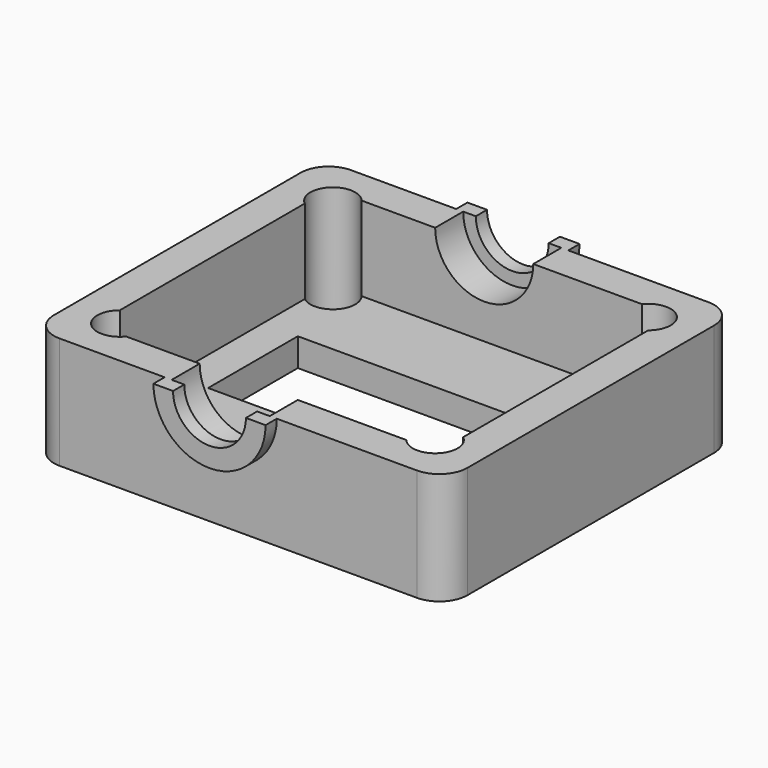
from build123d import *

# Parameters (mm, degrees)
BOX_W             = 8
BOX_H             = 1
BOX_DEPTH         = 4
TUBE016_R         = 4
TUBE016_R_2       = 2.6
TUBE016_DEPTH     = 1
BOX067_W          = 8
BOX067_H          = 1
BOX067_DEPTH      = 4
TUBE019_R         = 4
TUBE019_R_2       = 2.6
TUBE019_DEPTH     = 1
BOX051_W          = 17
BOX051_H          = 8
BOX051_DEPTH      = 2
CYLINDER093_R     = 1.6
CYLINDER093_DEPTH = 8
CYLINDER094_R     = 1.6
CYLINDER094_DEPTH = 8
CYLINDER095_R     = 1.6
CYLINDER095_DEPTH = 8
CYLINDER092_R     = 1.6
CYLINDER092_DEPTH = 8
CYLINDER084_R     = 3.5
CYLINDER084_DEPTH = 2.5
BOX033_W          = 29.5
BOX033_H          = 2.5
BOX033_DEPTH      = 6
CYLINDER082_R     = 3.5
CYLINDER082_DEPTH = 2.5
BOX021_W          = 29.5
BOX021_H          = 2.5
BOX021_DEPTH      = 6
BOX022_W          = 29.5
BOX022_H          = 26
BOX022_DEPTH      = 2
BOX029_W          = 2.5
BOX029_H          = 21
BOX029_DEPTH      = 6
BOX036_W          = 2.5
BOX036_H          = 21
BOX036_DEPTH      = 6
FILLET006_R       = 2
FILLET007_R       = 2


with BuildPart() as cube:
    # Box → Box (new body)
    with BuildSketch(Plane(origin=(-4, -7, 0), x_dir=(1, 0, 0), z_dir=(0, 0, 1))):
        with Locations((4, 0.5)):
            Rectangle(BOX_W, BOX_H)
    extrude(amount=BOX_DEPTH)


with BuildPart() as cut068:
    # Tube016 → Tube016 (new body)
    with BuildSketch(Plane.XZ.offset(6)):
        Circle(TUBE016_R)
        Circle(TUBE016_R_2, mode=Mode.SUBTRACT)
    extrude(amount=TUBE016_DEPTH)

    # Cut068: cut Cube
    add(cube.part, mode=Mode.SUBTRACT)


with BuildPart() as cube067:
    # Box067 → Box067 (new body)
    with BuildSketch(Plane(origin=(-4, -34, 0), x_dir=(1, 0, 0), z_dir=(0, 0, 1))):
        with Locations((4, 0.5)):
            Rectangle(BOX067_W, BOX067_H)
    extrude(amount=BOX067_DEPTH)


with BuildPart() as cut071:
    # Tube019 → Tube019 (new body)
    with BuildSketch(Plane.XZ.offset(33)):
        Circle(TUBE019_R)
        Circle(TUBE019_R_2, mode=Mode.SUBTRACT)
    extrude(amount=TUBE019_DEPTH)

    # Cut071: cut Cube067
    add(cube067.part, mode=Mode.SUBTRACT)


with BuildPart() as cube051:
    # Box051 → Box051 (new body)
    with BuildSketch(Plane(origin=(-8.5, -49, -8), x_dir=(1, 0, 0), z_dir=(0, 0, 1))):
        with Locations((8.5, 4)):
            Rectangle(BOX051_W, BOX051_H)
    extrude(amount=BOX051_DEPTH)


with BuildPart() as cylinder093:
    # Cylinder093 → Cylinder093 (new body)
    with BuildSketch(Plane(origin=(-10, -55, 0), x_dir=(1, 0, 0), z_dir=(0, 0, 1))):
        Circle(CYLINDER093_R)
    extrude(amount=CYLINDER093_DEPTH)


with BuildPart() as cylinder094:
    # Cylinder094 → Cylinder094 (new body)
    with BuildSketch(Plane(origin=(12.5, -36, 0), x_dir=(1, 0, 0), z_dir=(0, 0, 1))):
        Circle(CYLINDER094_R)
    extrude(amount=CYLINDER094_DEPTH)


with BuildPart() as cylinder095:
    # Cylinder095 → Cylinder095 (new body)
    with BuildSketch(Plane(origin=(12.5, -55, 0), x_dir=(1, 0, 0), z_dir=(0, 0, 1))):
        Circle(CYLINDER095_R)
    extrude(amount=CYLINDER095_DEPTH)


with BuildPart() as fusion059:
    # Cylinder092 → Cylinder092 (new body)
    with BuildSketch(Plane(origin=(-10, -36, 0), x_dir=(1, 0, 0), z_dir=(0, 0, 1))):
        Circle(CYLINDER092_R)
    extrude(amount=CYLINDER092_DEPTH)

    # Fusion058: union Cylinder093, Cylinder094, Cylinder095
    add(cylinder093.part)
    add(cylinder094.part)
    add(cylinder095.part)


with BuildPart() as fusion059_1:
    # Fusion058 placement: moved
    add(fusion059.part.moved(Location((0, 0, -8))))

    # Fusion059: union Cube051
    add(cube051.part)


with BuildPart() as cylinder084:
    # Cylinder084 → Cylinder084 (new body)
    with BuildSketch(Plane.XZ.offset(55.5)):
        Circle(CYLINDER084_R)
    extrude(amount=CYLINDER084_DEPTH)


with BuildPart() as cut038:
    # Box033 → Box033 (new body)
    with BuildSketch(Plane(origin=(-13.5, -58, -6), x_dir=(1, 0, 0), z_dir=(0, 0, 1))):
        with Locations((14.75, 1.25)):
            Rectangle(BOX033_W, BOX033_H)
    extrude(amount=BOX033_DEPTH)

    # Cut038: cut Cylinder084
    add(cylinder084.part, mode=Mode.SUBTRACT)


with BuildPart() as cut038_1:
    # Cut038 placement: moved
    add(cut038.part.moved(Location((0, 23, 0))))


with BuildPart() as cylinder082:
    # Cylinder082 → Cylinder082 (new body)
    with BuildSketch(Plane.XZ.offset(55.5)):
        Circle(CYLINDER082_R)
    extrude(amount=CYLINDER082_DEPTH)


with BuildPart() as cut036:
    # Box021 → Box021 (new body)
    with BuildSketch(Plane(origin=(-13.5, -58, -6), x_dir=(1, 0, 0), z_dir=(0, 0, 1))):
        with Locations((14.75, 1.25)):
            Rectangle(BOX021_W, BOX021_H)
    extrude(amount=BOX021_DEPTH)

    # Cut036: cut Cylinder082
    add(cylinder082.part, mode=Mode.SUBTRACT)


with BuildPart() as cut036_1:
    # Cut036 placement: moved
    add(cut036.part.moved(Location((0, -0.5, 0))))


with BuildPart() as cube022:
    # Box022 → Box022 (new body)
    with BuildSketch(Plane(origin=(-13.5, -58.5, -8), x_dir=(1, 0, 0), z_dir=(0, 0, 1))):
        with Locations((14.75, 13)):
            Rectangle(BOX022_W, BOX022_H)
    extrude(amount=BOX022_DEPTH)


with BuildPart() as cube029:
    # Box029 → Box029 (new body)
    with BuildSketch(Plane(origin=(-13.5, -56, -6), x_dir=(1, 0, 0), z_dir=(0, 0, 1))):
        with Locations((1.25, 10.5)):
            Rectangle(BOX029_W, BOX029_H)
    extrude(amount=BOX029_DEPTH)


with BuildPart() as fillet007:
    # Box036 → Box036 (new body)
    with BuildSketch(Plane(origin=(13.5, -56, -6), x_dir=(1, 0, 0), z_dir=(0, 0, 1))):
        with Locations((1.25, 10.5)):
            Rectangle(BOX036_W, BOX036_H)
    extrude(amount=BOX036_DEPTH)

    # Fusion062: union Cut038, Cut036, Cube022, Cube029
    add(cut038_1.part)
    add(cut036_1.part)
    add(cube022.part)
    add(cube029.part)

    # Cut056: cut Fusion059
    add(fusion059_1.part, mode=Mode.SUBTRACT)


with BuildPart() as fillet007_1:
    # Cut056 placement: moved
    add(fillet007.part.moved(Location((0, 25.5, 0))))

    # Fusion084: union Cut068, Cut071
    add(cut068.part)
    add(cut071.part)

    # Fillet006
    fillet006_edges = [fillet007_1.edges().sort_by_distance(p)[0] for p in [
        (-13.5, -7, -3),
        (-13.5, -33, -3),
    ]]
    fillet(fillet006_edges, radius=FILLET006_R)

    # Fillet007
    fillet007_edges = [fillet007_1.edges().sort_by_distance(p)[0] for p in [
        (16, -33, -3),
        (16, -7, -3),
    ]]
    fillet(fillet007_edges, radius=FILLET007_R)


solid = fillet007_1.part
